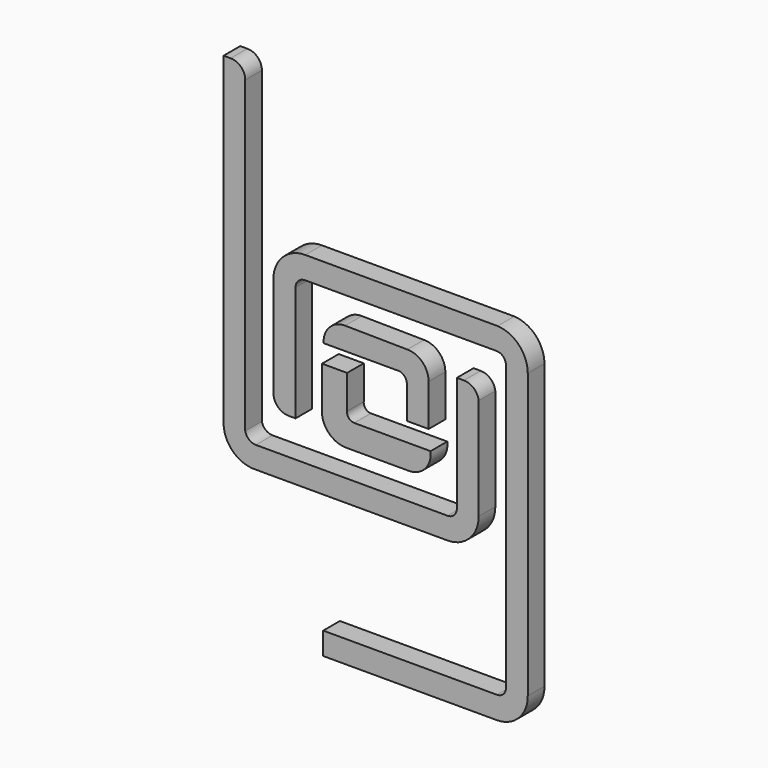
from build123d import *

# Parameters (mm, degrees)
F1_DEPTH = 25
F3_DEPTH = 25
F5_DEPTH = 25
F7_DEPTH = 25


with BuildPart() as f1:
    # F0 (on Front) → F1 (new body)
    with BuildSketch(Plane.XZ):
        with BuildLine():
            Line((-174.477761, 297.359556), (-182.962418, 297.359556))
            Line((-182.962418, 297.359556), (-182.962418, -90.606354))
            ThreePointArc((-182.962418, -90.606354), (-171.580706, -117.209903), (-144.479349, -127.349362))
            Line((-144.479349, -127.349362), (85.836962, -127.349362))
            ThreePointArc((85.836962, -127.349362), (112.349477, -116.277602), (123.113878, -89.638814))
            Line((123.113878, -89.638814), (123.113878, 32.654025))
            ThreePointArc((123.113878, 32.654025), (117.239595, 43.725564), (105.514027, 48.152443))
            Line((105.514027, 48.152443), (96.981473, 48.152443))
            Line((96.981473, 48.152443), (96.981473, -89.638814))
            ThreePointArc((96.981473, -89.638814), (93.867483, -97.7903), (85.836962, -101.204149))
            Line((85.836962, -101.204149), (-144.15586, -101.204149))
            ThreePointArc((-144.15586, -101.204149), (-152.425528, -98.25033), (-156.952441, -90.725735))
            Line((-156.952441, -90.725735), (-156.952441, 280.20823))
            ThreePointArc((-156.952441, 280.20823), (-162.108646, 292.468989), (-174.477761, 297.359556))
        make_face()
    extrude(amount=F1_DEPTH)


with BuildPart() as f3:
    # F2 (on Front) → F3 (new body)
    with BuildSketch(Plane.XZ):
        with BuildLine():
            Line((-34.718242, 10.46715), (-64.814202, 10.46715))
            Line((-64.814202, 10.46715), (-64.732675, -43.750239))
            ThreePointArc((-64.732675, -43.750239), (-55.086715, -61.734274), (-35.983678, -68.913691))
            Line((-35.983678, -68.913691), (39.365645, -68.913691))
            ThreePointArc((39.365645, -68.913691), (58.984989, -60.112924), (65.458328, -39.607607))
            Line((65.458328, -39.607607), (-26.138535, -39.607607))
            ThreePointArc((-26.138535, -39.607607), (-32.602285, -36.701397), (-34.718242, -29.937608))
            Line((-34.718242, -29.937608), (-34.718242, 10.46715))
        make_face()
    extrude(amount=F3_DEPTH)


with BuildPart() as f5:
    # F4 (on Front) → F5 (new body)
    with BuildSketch(Plane.XZ):
        with BuildLine():
            ThreePointArc((-37.156084, 59.634864), (-55.885526, 51.774768), (-62.92218, 32.72067))
            Line((-62.92218, 32.72067), (25.711916, 32.72067))
            ThreePointArc((25.711916, 32.72067), (33.56457, 30.045299), (36.902893, 22.450738))
            Line((36.902893, 22.450738), (36.902893, -16.94929))
            Line((36.902893, -16.94929), (63.147232, -16.94929))
            Line((63.147232, -16.94929), (63.147232, 33.251408))
            ThreePointArc((63.147232, 33.251408), (55.640323, 51.299866), (37.54819, 58.700895))
            Line((37.54819, 58.700895), (-37.156084, 59.634864))
        make_face()
    extrude(amount=F5_DEPTH)


with BuildPart() as f7:
    # F6 (on Front) → F7 (new body)
    with BuildSketch(Plane.XZ):
        with BuildLine():
            Line((-104.799263, -57.701193), (-96.597366, -57.701193))
            Line((-96.597366, -57.701193), (-96.597366, 80.636278))
            ThreePointArc((-96.597366, 80.636278), (-93.18955, 88.742844), (-85.013218, 91.979697))
            Line((-85.013218, 91.979697), (145.101115, 91.979697))
            ThreePointArc((145.101115, 91.979697), (152.760643, 88.462939), (155.887835, 80.636278))
            Line((155.887835, 80.636278), (155.887835, -259.340197))
            ThreePointArc((155.887835, -259.340197), (153.069352, -267.573366), (145.101085, -271.071315))
            Line((145.101085, -271.071315), (-63.395165, -271.071315))
            Line((-63.395165, -271.071315), (-63.395165, -297.922254))
            Line((-63.395165, -297.922254), (144.920394, -297.922254))
            ThreePointArc((144.920394, -297.922254), (171.369959, -286.852716), (182.050481, -260.243684))
            Line((182.050481, -260.243684), (182.050481, 80.636278))
            ThreePointArc((182.050481, 80.636278), (171.580327, 106.896784), (145.914242, 118.749648))
            Line((145.914242, 118.749648), (-85.013218, 118.749648))
            ThreePointArc((-85.013218, 118.749648), (-112.009716, 107.673307), (-123.20672, 80.726631))
            Line((-123.20672, 80.726631), (-123.20672, -39.796535))
            ThreePointArc((-123.20672, -39.796535), (-117.638765, -52.486737), (-104.799263, -57.701193))
        make_face()
    extrude(amount=F7_DEPTH)


solid = Compound([f1.part, f3.part, f5.part, f7.part])
